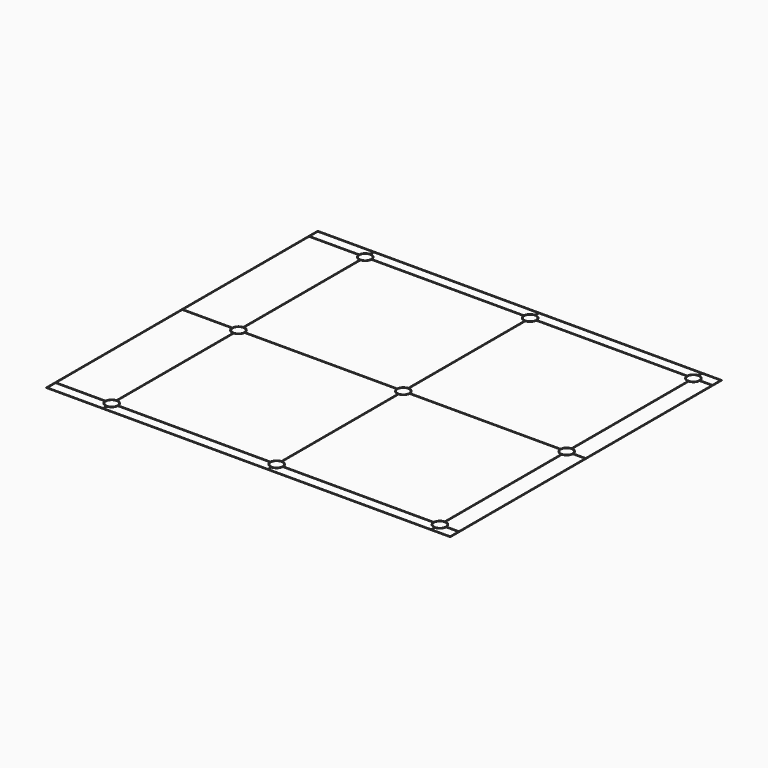
from build123d import *

# Parameters (mm, degrees)
F0_W     = 250
F0_H     = 210
F0_R     = 3.55
F1_DEPTH = 0.2


with BuildPart() as f1:
    # F0 (on Top) → F1 (new body)
    with BuildSketch(Plane.XY):
        Rectangle(F0_W, F0_H)
        with BuildLine():
            Line((-90.225, -104.55), (-124.55, -104.55))
            Line((-124.55, -104.55), (-124.55, -98.225))
            Line((-124.55, -98.225), (-93.993667, -98.225))
            ThreePointArc((-93.993667, -98.225), (-92.828427, -100.828427), (-90.225, -101.993667))
            Line((-90.225, -101.993667), (-90.225, -104.55))
        make_face(mode=Mode.SUBTRACT)
        with Locations((-90, -98)):
            Circle(F0_R, mode=Mode.SUBTRACT)
        with BuildLine():
            Line((-86.006333, -98.225), (8.006333, -98.225))
            ThreePointArc((8.006333, -98.225), (9.171573, -100.828427), (11.775, -101.993667))
            Line((11.775, -101.993667), (11.775, -104.55))
            Line((11.775, -104.55), (-89.775, -104.55))
            Line((-89.775, -104.55), (-89.775, -101.993667))
            ThreePointArc((-89.775, -101.993667), (-87.171573, -100.828427), (-86.006333, -98.225))
        make_face(mode=Mode.SUBTRACT)
        with BuildLine():
            Line((-124.55, -0.225), (-93.993667, -0.225))
            ThreePointArc((-93.993667, -0.225), (-92.828427, -2.828427), (-90.225, -3.993667))
            Line((-90.225, -3.993667), (-90.225, -94.006333))
            ThreePointArc((-90.225, -94.006333), (-92.828427, -95.171573), (-93.993667, -97.775))
            Line((-93.993667, -97.775), (-124.55, -97.775))
            Line((-124.55, -97.775), (-124.55, -0.225))
        make_face(mode=Mode.SUBTRACT)
        with BuildLine():
            Line((-86.006333, -0.225), (8.006333, -0.225))
            ThreePointArc((8.006333, -0.225), (9.171573, -2.828427), (11.775, -3.993667))
            Line((11.775, -3.993667), (11.775, -94.006333))
            ThreePointArc((11.775, -94.006333), (9.171573, -95.171573), (8.006333, -97.775))
            Line((8.006333, -97.775), (-86.006333, -97.775))
            ThreePointArc((-86.006333, -97.775), (-87.171573, -95.171573), (-89.775, -94.006333))
            Line((-89.775, -94.006333), (-89.775, -3.993667))
            ThreePointArc((-89.775, -3.993667), (-87.171573, -2.828427), (-86.006333, -0.225))
        make_face(mode=Mode.SUBTRACT)
        with Locations((12, -98)):
            Circle(F0_R, mode=Mode.SUBTRACT)
        with BuildLine():
            Line((12.225, -104.55), (12.225, -101.993667))
            ThreePointArc((12.225, -101.993667), (14.828427, -100.828427), (15.993667, -98.225))
            Line((15.993667, -98.225), (109.006333, -98.225))
            ThreePointArc((109.006333, -98.225), (110.171573, -100.828427), (112.775, -101.993667))
            Line((112.775, -101.993667), (112.775, -104.55))
            Line((112.775, -104.55), (12.225, -104.55))
        make_face(mode=Mode.SUBTRACT)
        with BuildLine():
            Line((124.55, -98.225), (124.55, -104.55))
            Line((124.55, -104.55), (113.225, -104.55))
            Line((113.225, -104.55), (113.225, -101.993667))
            ThreePointArc((113.225, -101.993667), (115.828427, -100.828427), (116.993667, -98.225))
            Line((116.993667, -98.225), (124.55, -98.225))
        make_face(mode=Mode.SUBTRACT)
        with Locations((113, -98)):
            Circle(F0_R, mode=Mode.SUBTRACT)
        with BuildLine():
            Line((15.993667, -0.225), (109.006333, -0.225))
            ThreePointArc((109.006333, -0.225), (110.171573, -2.828427), (112.775, -3.993667))
            Line((112.775, -3.993667), (112.775, -94.006333))
            ThreePointArc((112.775, -94.006333), (110.171573, -95.171573), (109.006333, -97.775))
            Line((109.006333, -97.775), (15.993667, -97.775))
            ThreePointArc((15.993667, -97.775), (14.828427, -95.171573), (12.225, -94.006333))
            Line((12.225, -94.006333), (12.225, -3.993667))
            ThreePointArc((12.225, -3.993667), (14.828427, -2.828427), (15.993667, -0.225))
        make_face(mode=Mode.SUBTRACT)
        with BuildLine():
            Line((116.993667, -0.225), (124.55, -0.225))
            Line((124.55, -0.225), (124.55, -97.775))
            Line((124.55, -97.775), (116.993667, -97.775))
            ThreePointArc((116.993667, -97.775), (115.828427, -95.171573), (113.225, -94.006333))
            Line((113.225, -94.006333), (113.225, -3.993667))
            ThreePointArc((113.225, -3.993667), (115.828427, -2.828427), (116.993667, -0.225))
        make_face(mode=Mode.SUBTRACT)
        with Locations((-90, 0)):
            Circle(F0_R, mode=Mode.SUBTRACT)
        with BuildLine():
            Line((-124.55, 97.775), (-93.993667, 97.775))
            ThreePointArc((-93.993667, 97.775), (-92.828427, 95.171573), (-90.225, 94.006333))
            Line((-90.225, 94.006333), (-90.225, 3.993667))
            ThreePointArc((-90.225, 3.993667), (-92.828427, 2.828427), (-93.993667, 0.225))
            Line((-93.993667, 0.225), (-124.55, 0.225))
            Line((-124.55, 0.225), (-124.55, 97.775))
        make_face(mode=Mode.SUBTRACT)
        with BuildLine():
            Line((-86.006333, 97.775), (8.006333, 97.775))
            ThreePointArc((8.006333, 97.775), (9.171573, 95.171573), (11.775, 94.006333))
            Line((11.775, 94.006333), (11.775, 3.993667))
            ThreePointArc((11.775, 3.993667), (9.171573, 2.828427), (8.006333, 0.225))
            Line((8.006333, 0.225), (-86.006333, 0.225))
            ThreePointArc((-86.006333, 0.225), (-87.171573, 2.828427), (-89.775, 3.993667))
            Line((-89.775, 3.993667), (-89.775, 94.006333))
            ThreePointArc((-89.775, 94.006333), (-87.171573, 95.171573), (-86.006333, 97.775))
        make_face(mode=Mode.SUBTRACT)
        with BuildLine():
            Line((-90.225, 104.55), (-90.225, 101.993667))
            ThreePointArc((-90.225, 101.993667), (-92.828427, 100.828427), (-93.993667, 98.225))
            Line((-93.993667, 98.225), (-124.55, 98.225))
            Line((-124.55, 98.225), (-124.55, 104.55))
            Line((-124.55, 104.55), (-90.225, 104.55))
        make_face(mode=Mode.SUBTRACT)
        with Locations((-90, 98)):
            Circle(F0_R, mode=Mode.SUBTRACT)
        with BuildLine():
            Line((-89.775, 101.993667), (-89.775, 104.55))
            Line((-89.775, 104.55), (11.775, 104.55))
            Line((11.775, 104.55), (11.775, 101.993667))
            ThreePointArc((11.775, 101.993667), (9.171573, 100.828427), (8.006333, 98.225))
            Line((8.006333, 98.225), (-86.006333, 98.225))
            ThreePointArc((-86.006333, 98.225), (-87.171573, 100.828427), (-89.775, 101.993667))
        make_face(mode=Mode.SUBTRACT)
        with Locations((12, 0)):
            Circle(F0_R, mode=Mode.SUBTRACT)
        with Locations((113, 0)):
            Circle(F0_R, mode=Mode.SUBTRACT)
        with BuildLine():
            Line((15.993667, 97.775), (109.006333, 97.775))
            ThreePointArc((109.006333, 97.775), (110.171573, 95.171573), (112.775, 94.006333))
            Line((112.775, 94.006333), (112.775, 3.993667))
            ThreePointArc((112.775, 3.993667), (110.171573, 2.828427), (109.006333, 0.225))
            Line((109.006333, 0.225), (15.993667, 0.225))
            ThreePointArc((15.993667, 0.225), (14.828427, 2.828427), (12.225, 3.993667))
            Line((12.225, 3.993667), (12.225, 94.006333))
            ThreePointArc((12.225, 94.006333), (14.828427, 95.171573), (15.993667, 97.775))
        make_face(mode=Mode.SUBTRACT)
        with BuildLine():
            Line((116.993667, 97.775), (124.55, 97.775))
            Line((124.55, 97.775), (124.55, 0.225))
            Line((124.55, 0.225), (116.993667, 0.225))
            ThreePointArc((116.993667, 0.225), (115.828427, 2.828427), (113.225, 3.993667))
            Line((113.225, 3.993667), (113.225, 94.006333))
            ThreePointArc((113.225, 94.006333), (115.828427, 95.171573), (116.993667, 97.775))
        make_face(mode=Mode.SUBTRACT)
        with Locations((12, 98)):
            Circle(F0_R, mode=Mode.SUBTRACT)
        with BuildLine():
            Line((12.225, 101.993667), (12.225, 104.55))
            Line((12.225, 104.55), (112.775, 104.55))
            Line((112.775, 104.55), (112.775, 101.993667))
            ThreePointArc((112.775, 101.993667), (110.171573, 100.828427), (109.006333, 98.225))
            Line((109.006333, 98.225), (15.993667, 98.225))
            ThreePointArc((15.993667, 98.225), (14.828427, 100.828427), (12.225, 101.993667))
        make_face(mode=Mode.SUBTRACT)
        with Locations((113, 98)):
            Circle(F0_R, mode=Mode.SUBTRACT)
        with BuildLine():
            Line((113.225, 104.55), (124.55, 104.55))
            Line((124.55, 104.55), (124.55, 98.225))
            Line((124.55, 98.225), (116.993667, 98.225))
            ThreePointArc((116.993667, 98.225), (115.828427, 100.828427), (113.225, 101.993667))
            Line((113.225, 101.993667), (113.225, 104.55))
        make_face(mode=Mode.SUBTRACT)
    extrude(amount=F1_DEPTH)


solid = f1.part
